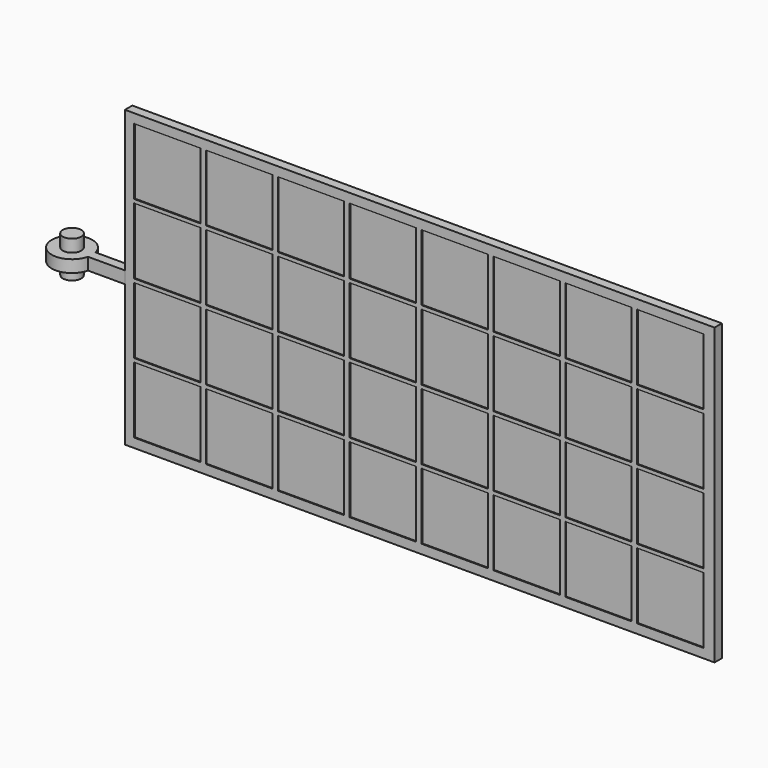
from build123d import *

# Parameters (mm, degrees)
F0_R      = 6.35
F1_DEPTH  = 12.7
F2_R      = 6.35
F3_DEPTH  = 4.191
F4_W      = 45.72
F4_H      = 45.72
F5_DEPTH  = 3.175
F7_W      = 400.05
F7_H      = 196.85
F8_DEPTH  = 190
F10_W     = 400.05
F10_H     = 196.85
F11_DEPTH = 5.08


with BuildPart() as f1:
    # F0 (on Top) → F1 (new body, symmetric)
    with BuildSketch(Plane.XY):
        Circle(F0_R)
    extrude(amount=F1_DEPTH, both=True)

    # F2 (on Top) → F3 (join, symmetric)
    with BuildSketch(Plane.XY):
        with BuildLine():
            Line((38.985255793, 3.2560290292), (13.585255793, 3.2560290292))
            ThreePointArc((13.585255793, 3.2560290292), (-13.97, 0), (13.585255793, -3.2560290292))
            Line((13.585255793, -3.2560290292), (38.985255793, -3.2560290292))
            Line((38.985255793, -3.2560290292), (38.985255793, 3.2560290292))
        make_face()
        Circle(F2_R, mode=Mode.SUBTRACT)
    extrude(amount=F3_DEPTH, both=True)

    # F4 (on Front) → F5 (join)
    with BuildSketch(Plane.XZ):
        Polygon((38.985255793, 101.6), (38.985255793, 4.191), (38.985255793, 0), (38.985255793, -4.191), (38.985255793, -101.6), (445.385255793, -101.6), (445.385255793, 101.6), align=None)
        with Locations((68.195255793, -72.39)):
            Rectangle(F4_W, F4_H, mode=Mode.SUBTRACT)
        with Locations((117.725255793, -72.39)):
            Rectangle(F4_W, F4_H, mode=Mode.SUBTRACT)
        with Locations((167.255255793, -72.39)):
            Rectangle(F4_W, F4_H, mode=Mode.SUBTRACT)
        with Locations((216.785255793, -72.39)):
            Rectangle(F4_W, F4_H, mode=Mode.SUBTRACT)
        with Locations((68.195255793, -24.13)):
            Rectangle(F4_W, F4_H, mode=Mode.SUBTRACT)
        with Locations((117.725255793, -24.13)):
            Rectangle(F4_W, F4_H, mode=Mode.SUBTRACT)
        with Locations((167.255255793, -24.13)):
            Rectangle(F4_W, F4_H, mode=Mode.SUBTRACT)
        with Locations((216.785255793, -24.13)):
            Rectangle(F4_W, F4_H, mode=Mode.SUBTRACT)
        with Locations((266.315255793, -72.39)):
            Rectangle(F4_W, F4_H, mode=Mode.SUBTRACT)
        with Locations((315.845255793, -72.39)):
            Rectangle(F4_W, F4_H, mode=Mode.SUBTRACT)
        with Locations((365.375255793, -72.39)):
            Rectangle(F4_W, F4_H, mode=Mode.SUBTRACT)
        with Locations((414.905255793, -72.39)):
            Rectangle(F4_W, F4_H, mode=Mode.SUBTRACT)
        with Locations((266.315255793, -24.13)):
            Rectangle(F4_W, F4_H, mode=Mode.SUBTRACT)
        with Locations((315.845255793, -24.13)):
            Rectangle(F4_W, F4_H, mode=Mode.SUBTRACT)
        with Locations((365.375255793, -24.13)):
            Rectangle(F4_W, F4_H, mode=Mode.SUBTRACT)
        with Locations((414.905255793, -24.13)):
            Rectangle(F4_W, F4_H, mode=Mode.SUBTRACT)
        with Locations((68.195255793, 24.13)):
            Rectangle(F4_W, F4_H, mode=Mode.SUBTRACT)
        with Locations((117.725255793, 24.13)):
            Rectangle(F4_W, F4_H, mode=Mode.SUBTRACT)
        with Locations((167.255255793, 24.13)):
            Rectangle(F4_W, F4_H, mode=Mode.SUBTRACT)
        with Locations((216.785255793, 24.13)):
            Rectangle(F4_W, F4_H, mode=Mode.SUBTRACT)
        with Locations((68.195255793, 72.39)):
            Rectangle(F4_W, F4_H, mode=Mode.SUBTRACT)
        with Locations((117.725255793, 72.39)):
            Rectangle(F4_W, F4_H, mode=Mode.SUBTRACT)
        with Locations((167.255255793, 72.39)):
            Rectangle(F4_W, F4_H, mode=Mode.SUBTRACT)
        with Locations((216.785255793, 72.39)):
            Rectangle(F4_W, F4_H, mode=Mode.SUBTRACT)
        with Locations((266.315255793, 24.13)):
            Rectangle(F4_W, F4_H, mode=Mode.SUBTRACT)
        with Locations((315.845255793, 24.13)):
            Rectangle(F4_W, F4_H, mode=Mode.SUBTRACT)
        with Locations((365.375255793, 24.13)):
            Rectangle(F4_W, F4_H, mode=Mode.SUBTRACT)
        with Locations((414.905255793, 24.13)):
            Rectangle(F4_W, F4_H, mode=Mode.SUBTRACT)
        with Locations((266.315255793, 72.39)):
            Rectangle(F4_W, F4_H, mode=Mode.SUBTRACT)
        with Locations((315.845255793, 72.39)):
            Rectangle(F4_W, F4_H, mode=Mode.SUBTRACT)
        with Locations((365.375255793, 72.39)):
            Rectangle(F4_W, F4_H, mode=Mode.SUBTRACT)
        with Locations((414.905255793, 72.39)):
            Rectangle(F4_W, F4_H, mode=Mode.SUBTRACT)
    extrude(amount=-F5_DEPTH)

    # F7 (on face) → F8 (cut)
    with BuildSketch(Plane.XZ):
        with Locations((241.804255793, 0.381)):
            Rectangle(F7_W, F7_H)
    extrude(amount=F8_DEPTH, mode=Mode.SUBTRACT)

    # F12: F1 across face


with BuildPart() as f11:
    # F10 (on offset) → F11 (new body)
    with BuildSketch(Plane.XZ.offset(-2.54)):
        with Locations((241.804255793, 0.381)):
            Rectangle(F10_W, F10_H)
    extrude(amount=F11_DEPTH)


with BuildPart() as f1_1:
    add(f1.part)
    add(f1.part.mirror(Plane.XZ))


solid = Compound([f11.part, f1_1.part])
